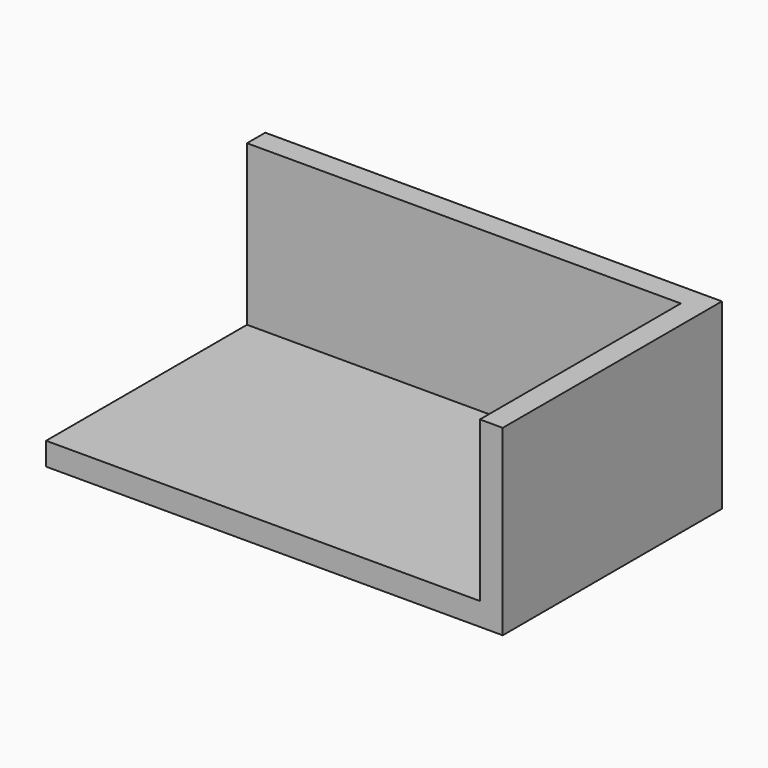
from build123d import *

# Parameters (mm, degrees)
F0_W     = 100
F0_H     = 60
F1_DEPTH = 5
F2_W     = 95
F2_H     = 5
F2_W_2   = 5
F2_H_2   = 55
F3_DEPTH = 35


with BuildPart() as f1:
    # F0 (on Top) → F1 (new body)
    with BuildSketch(Plane.XY):
        with Locations((-55.532511, -52.429219)):
            Rectangle(F0_W, F0_H)
    extrude(amount=F1_DEPTH)

    # F2 (on face) → F3 (join)
    with BuildSketch(Plane.XY.offset(5)):
        with Locations((-58.032511, -24.929219)):
            Rectangle(F2_W, F2_H)
        with Locations((-8.032511, -24.929219)):
            Rectangle(F2_W_2, F2_H)
        with Locations((-8.032511, -54.929219)):
            Rectangle(F2_W_2, F2_H_2)
    extrude(amount=F3_DEPTH)


solid = f1.part
